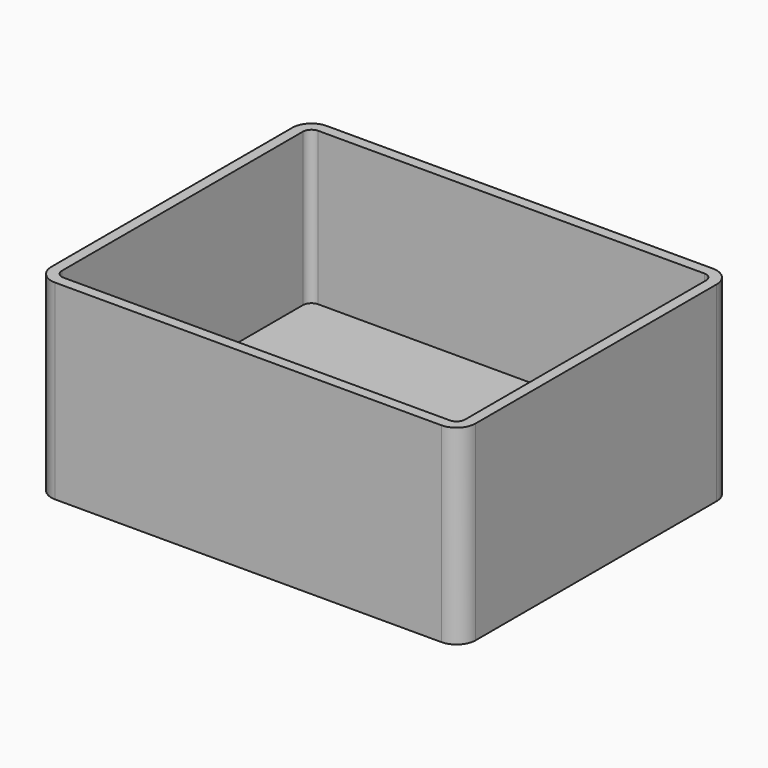
from build123d import *

# Parameters (mm, degrees)
PAD_DEPTH    = 45
POCKET_DEPTH = 36


with BuildPart() as part:
    # Sketch → Pad (new body)
    with BuildSketch(Plane.XY):
        with BuildLine():
            Line((4.5, 0), (95.5, 0))
            ThreePointArc((95.5, 0), (98.681981, 1.318019), (100, 4.5))
            Line((100, 4.5), (100, 75.5))
            ThreePointArc((100, 75.5), (98.681981, 78.681981), (95.5, 80))
            Line((95.5, 80), (4.5, 80))
            ThreePointArc((4.5, 80), (1.318019, 78.681981), (0, 75.5))
            Line((0, 75.5), (0, 4.5))
            ThreePointArc((0, 4.5), (1.318019, 1.318019), (4.5, 0))
        make_face()
    extrude(amount=PAD_DEPTH)

    # Sketch001 (on Face10 of Pad) → Pocket (cut)
    with BuildSketch(Plane.XY.offset(45)):
        with BuildLine():
            Line((2.5, 75.5), (2.5, 4.5))
            ThreePointArc((2.5, 4.5), (3.085786, 3.085786), (4.5, 2.5))
            Line((4.5, 2.5), (95.5, 2.5))
            ThreePointArc((95.5, 2.5), (96.914214, 3.085786), (97.5, 4.5))
            Line((97.5, 4.5), (97.5, 75.5))
            ThreePointArc((97.5, 75.5), (96.914214, 76.914214), (95.5, 77.5))
            Line((95.5, 77.5), (4.5, 77.5))
            ThreePointArc((4.5, 77.5), (3.085786, 76.914214), (2.5, 75.5))
        make_face()
    extrude(amount=-POCKET_DEPTH, mode=Mode.SUBTRACT)


solid = part.part
